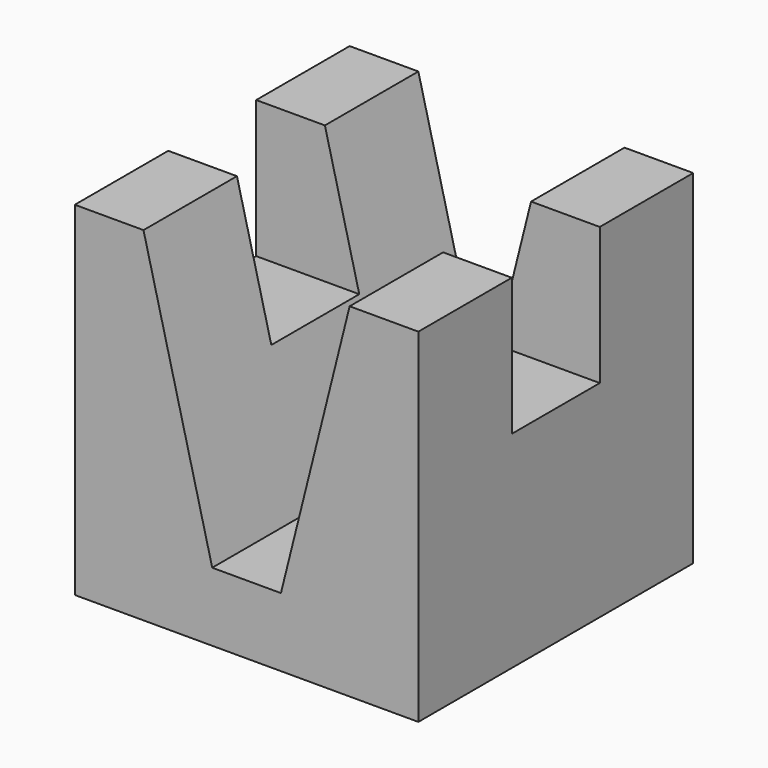
from build123d import *

# Parameters (mm, degrees)
F1_DEPTH = 12.5
F2_W     = 8
F2_H     = 10
F3_DEPTH = 25.001


with BuildPart() as f1:
    # F0 (on Front) → F1 (new body, symmetric)
    with BuildSketch(Plane.XZ):
        Polygon((-12.5, 25), (-12.5, 0), (12.5, 0), (12.5, 25), (7.5, 25), (2.5, 5), (-2.5, 5), (-7.5, 25), align=None)
    extrude(amount=F1_DEPTH, both=True)

    # F2 (on face) → F3 (cut, through all)
    with BuildSketch(Plane.YZ.offset(12.5)):
        with Locations((0, 20)):
            Rectangle(F2_W, F2_H)
    extrude(amount=-F3_DEPTH, mode=Mode.SUBTRACT)


solid = f1.part
